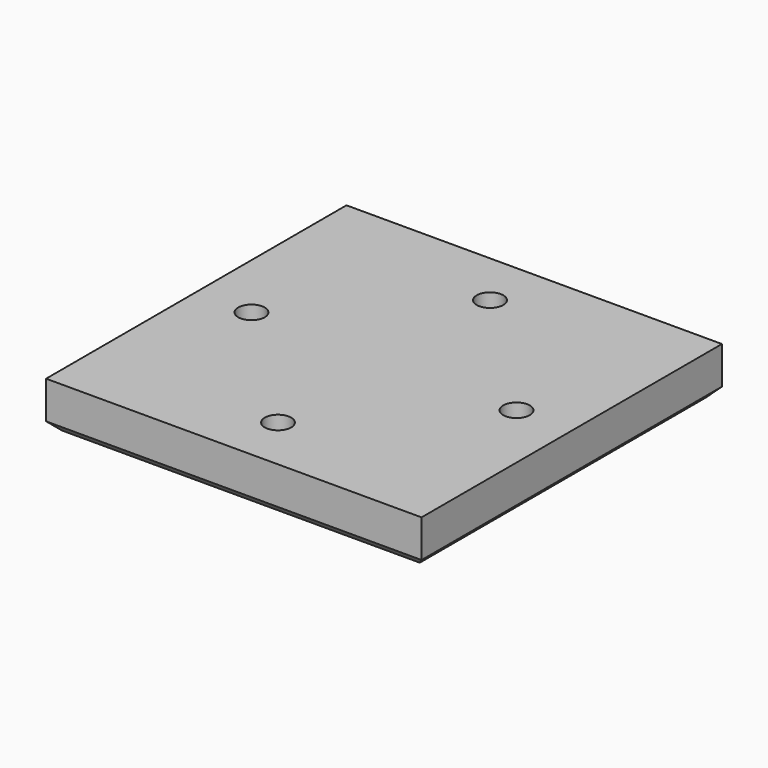
from build123d import *

# Parameters (mm, degrees)
F0_W     = 85
F0_H     = 85
F1_DEPTH = 10.5
F4_R     = 3
F5_DEPTH = 25
F6_R     = 5.65
F6_R_2   = 3
F7_DEPTH = 6
F8_SIZE  = 2


with BuildPart() as f1:
    # F0 (on Top) → F1 (new body)
    with BuildSketch(Plane.XY):
        Rectangle(F0_W, F0_H)
    extrude(amount=F1_DEPTH)

    # F4 (on face) → F5 (cut)
    with BuildSketch(Plane(origin=(0, 0, 0), x_dir=(1, 0, 0), z_dir=(0, 0, -1))):
        with Locations((0, 30)):
            Circle(F4_R)
        with Locations((0, -30)):
            Circle(F4_R)
        with Locations((30, 0)):
            Circle(F4_R)
        with Locations((-30, 0)):
            Circle(F4_R)
    extrude(amount=-F5_DEPTH, mode=Mode.SUBTRACT)

    # F6 (on face) → F7 (cut)
    with BuildSketch(Plane(origin=(0, 0, 0), x_dir=(1, 0, 0), z_dir=(0, 0, -1))):
        with Locations((0, 30)):
            Circle(F6_R)
        with Locations((0, 30)):
            Circle(F6_R_2, mode=Mode.SUBTRACT)
        with Locations((30, 0)):
            Circle(F6_R)
        with Locations((30, 0)):
            Circle(F6_R_2, mode=Mode.SUBTRACT)
        with Locations((0, -30)):
            Circle(F6_R)
        with Locations((0, -30)):
            Circle(F6_R_2, mode=Mode.SUBTRACT)
        with Locations((-30, 0)):
            Circle(F6_R)
        with Locations((-30, 0)):
            Circle(F6_R_2, mode=Mode.SUBTRACT)
    extrude(amount=-F7_DEPTH, mode=Mode.SUBTRACT)

    # F8
    f8_edges = [f1.edges().sort_by_distance(p)[0] for p in [
        (-42.5, 0, 0),
        (0, -42.5, 0),
        (42.5, 0, 0),
        (0, 42.5, 0),
    ]]
    chamfer(f8_edges, length=F8_SIZE)


solid = f1.part
